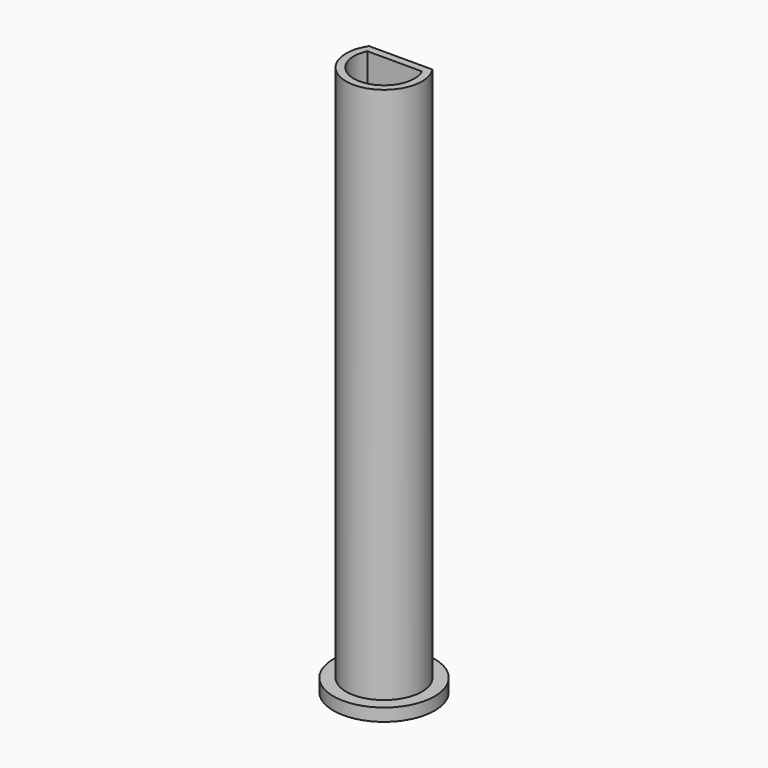
from build123d import *

# Parameters (mm, degrees)
F1_DEPTH = 87
F0_R     = 8
F0_R_2   = 1.5
F2_DEPTH = 2


with BuildPart() as f1:
    # F0 (on Top) → F1 (new body)
    with BuildSketch(Plane.XY):
        with BuildLine():
            Line((5.015722, 3.2928), (-5.015722, 3.2928))
            ThreePointArc((-5.015722, 3.2928), (0, -6), (5.015722, 3.2928))
        make_face()
        with BuildLine():
            ThreePointArc((4.319744, 2.0928), (0, -4.8), (-4.319744, 2.0928))
            Line((-4.319744, 2.0928), (4.319744, 2.0928))
        make_face(mode=Mode.SUBTRACT)
    extrude(amount=F1_DEPTH)

    # F0 (on Top) → F2 (join)
    with BuildSketch(Plane.XY):
        Circle(F0_R)
        with BuildLine():
            ThreePointArc((5.015722, 3.2928), (0, -6), (-5.015722, 3.2928))
            Line((-5.015722, 3.2928), (5.015722, 3.2928))
        make_face(mode=Mode.SUBTRACT)
        with Locations((0, 5.415178)):
            Circle(F0_R_2, mode=Mode.SUBTRACT)
    extrude(amount=F2_DEPTH)


solid = f1.part
